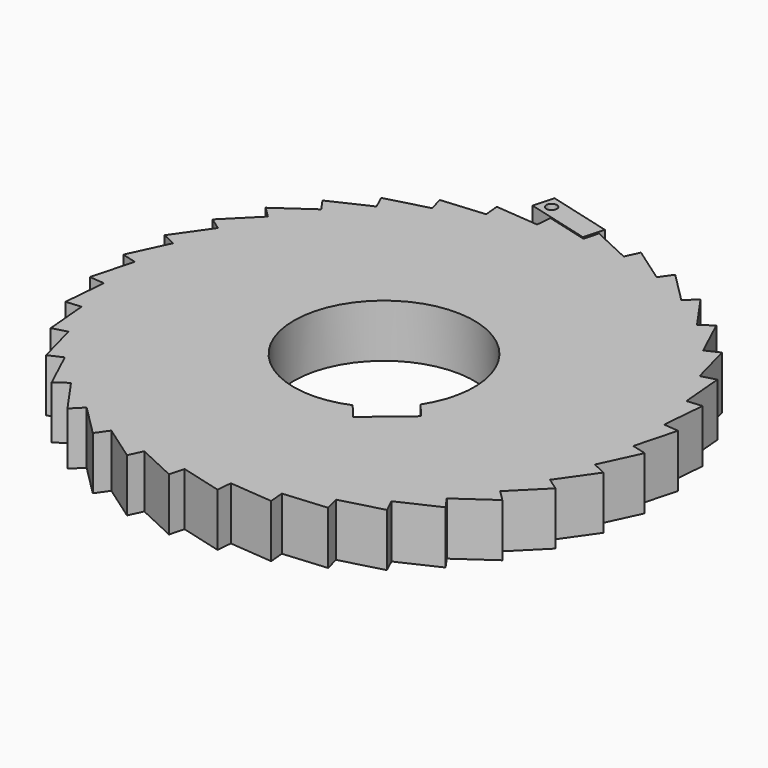
from build123d import *

# Parameters (mm, degrees)
CYLINDER001_R          = 17
CYLINDER001_DEPTH      = 10
BOX001_W               = 10
BOX001_H               = 10
BOX001_DEPTH           = 10
BOX_W                  = 10
BOX_H                  = 10
BOX_DEPTH              = 10
BOX_PLACEMENT_ANGLE    = 75
ARRAY_COUNT            = 36
CYLINDER_R             = 50
CYLINDER_DEPTH         = 10
CUT001_PLACEMENT_ANGLE = 220
CYLINDER002_R          = 1
CYLINDER002_DEPTH      = 10
BOX002_W               = 12.5
BOX002_H               = 4
BOX002_DEPTH           = 10
CUT002_PLACEMENT_ANGLE = 345


with BuildPart() as cylinder001:
    # Cylinder001 → Cylinder001 (new body)
    with BuildSketch(Plane.XY):
        Circle(CYLINDER001_R)
    extrude(amount=CYLINDER001_DEPTH)


with BuildPart() as fusion:
    # Box001 → Box001 (new body)
    with BuildSketch(Plane(origin=(-5, 10, 0), x_dir=(1, 0, 0), z_dir=(0, 0, 1))):
        with Locations((5, 5)):
            Rectangle(BOX001_W, BOX001_H)
    extrude(amount=BOX001_DEPTH)

    # Fusion: union Cylinder001
    add(cylinder001.part)


with BuildPart() as array:
    # Box → Box (new body)
    with BuildSketch(Plane.XY):
        with Locations((5, 5)):
            Rectangle(BOX_W, BOX_H)
    extrude(amount=BOX_DEPTH)


with BuildPart() as array_1:
    # Box placement: moved
    add(array.part.moved(Location((0, 47, 0))).rotate(Axis((0, 47, 0), (0, 0, 1)), BOX_PLACEMENT_ANGLE))

    # Array: Array ×36 about axis
    array_axis = Axis((0, 0, 0), (0, 0, 1))


with BuildPart() as array_2:
    add(array_1.part)
    for i in range(1, ARRAY_COUNT):
        add(array_1.part.rotate(array_axis, i * 360 / ARRAY_COUNT))


with BuildPart() as cut001:
    # Cylinder → Cylinder (new body)
    with BuildSketch(Plane.XY):
        Circle(CYLINDER_R)
    extrude(amount=CYLINDER_DEPTH)

    # Cut: cut Array
    add(array_2.part, mode=Mode.SUBTRACT)

    # Cut001: cut Fusion
    add(fusion.part, mode=Mode.SUBTRACT)


with BuildPart() as cut001_1:
    # Cut001 placement: moved
    add(cut001.part.rotate(Axis((0, 0, 0), (0, 0, 1)), CUT001_PLACEMENT_ANGLE))


with BuildPart() as cylinder002:
    # Cylinder002 → Cylinder002 (new body)
    with BuildSketch(Plane.XY):
        Circle(CYLINDER002_R)
    extrude(amount=CYLINDER002_DEPTH)


with BuildPart() as cut002:
    # Box002 → Box002 (new body)
    with BuildSketch(Plane(origin=(-2, -2, 0), x_dir=(1, 0, 0), z_dir=(0, 0, 1))):
        with Locations((6.25, 2)):
            Rectangle(BOX002_W, BOX002_H)
    extrude(amount=BOX002_DEPTH)

    # Cut002: cut Cylinder002
    add(cylinder002.part, mode=Mode.SUBTRACT)


with BuildPart() as cut002_1:
    # Cut002 placement: moved
    add(cut002.part.moved(Location((-10, 52, 0))).rotate(Axis((-10, 52, 0), (0, 0, 1)), CUT002_PLACEMENT_ANGLE))


solid = Compound([cut001_1.part, cut002_1.part])
